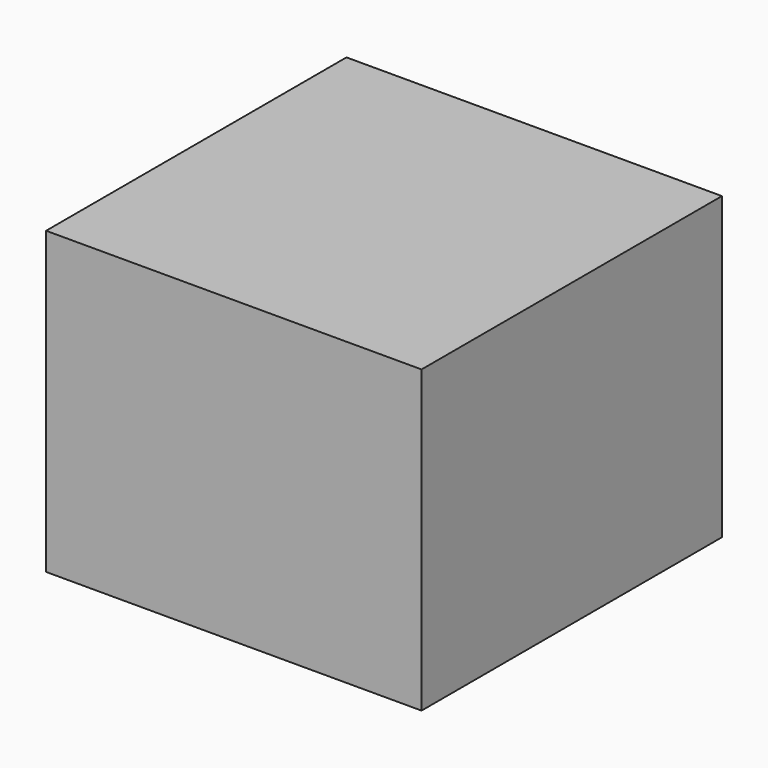
from build123d import *

# Parameters (mm, degrees)
F0_W      = 50
F0_H      = 60
F1_DEPTH  = 25
F1_FACE_W = 50
F1_FACE_H = 60
F2_DEPTH  = 50
F2_FACE_W = 75
F2_FACE_H = 60
F3_DEPTH  = 25


with BuildPart() as f1:
    # F0 (on Front) → F1 (new body)
    with BuildSketch(Plane.XZ):
        Rectangle(F0_W, F0_H)
    extrude(amount=F1_DEPTH)

    # F1_face (on face) → F2 (join)
    with BuildSketch(Plane.XZ.offset(25)):
        Rectangle(F1_FACE_W, F1_FACE_H)
    extrude(amount=F2_DEPTH)

    # F2_face (on face) → F3 (join)
    with BuildSketch(Plane(origin=(25, -37.5, 0), x_dir=(0, 1, 0), z_dir=(1, 0, 0))):
        Rectangle(F2_FACE_W, F2_FACE_H)
    extrude(amount=F3_DEPTH)


solid = f1.part
